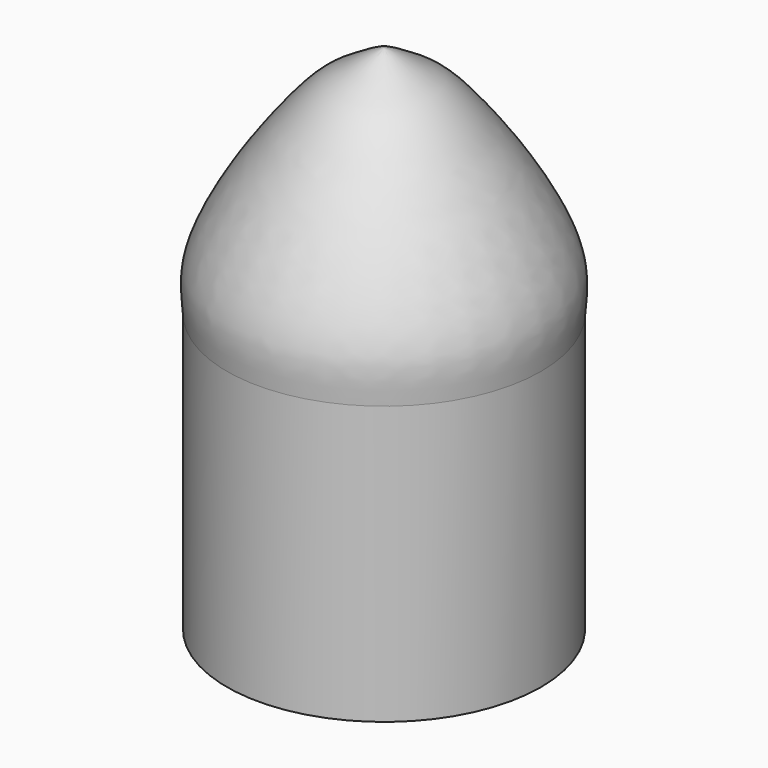
from build123d import *


with BuildPart() as f1:
    # F0 (on Front) → F1 (revolve)
    with BuildSketch(Plane.XZ):
        with BuildLine():
            Line((-13, 0), (-12.2, 0))
            Line((-12.2, 0), (-12.2, 23))
            Line((-12.2, 23), (0, 23))
            Line((0, 23), (0, 42.356684804))
            add(Edge.make_bspline(
                [(-13, 23), (-13.0842029815, 24.1261889409), (-13.480033767, 26.6687942136), (-10.5868260387, 32.240891695), (-7.6066101935, 36.3973581636), (-4.8278962173, 39.7612115657), (-2.7097824253, 40.878915547), (-0.8102426344, 42.1739784564), (0, 42.356684804)],
                knots=[0, 0, 0, 0, 0.1565787658, 0.361809885, 0.5558946789, 0.7252693913, 0.8563406711, 1, 1, 1, 1], degree=3))
            Line((-13, 23), (-13, 0))
        make_face()
    revolve(axis=Axis((0, 0, 30.0287739374), (0, 0, -1)))


solid = f1.part
